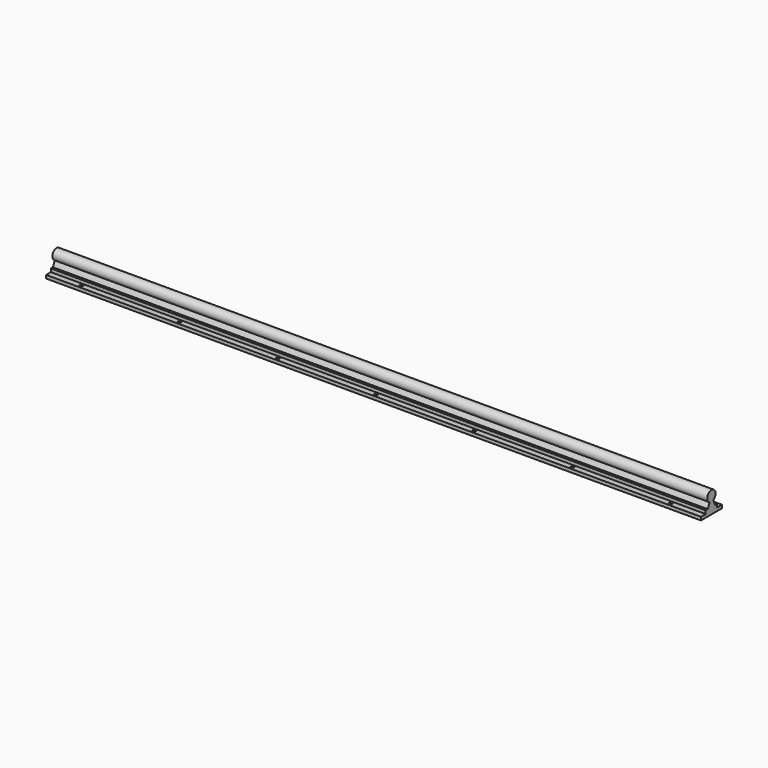
from build123d import *

# Parameters (mm, degrees)
F1_DEPTH = 1000
F2_R     = 2.5
F3_DEPTH = 33.001


with BuildPart() as f1:
    # F0 (on Right) → F1 (new body)
    with BuildSketch(Plane.YZ):
        with BuildLine():
            Line((0, 5), (0, 0))
            Line((0, 0), (40, 0))
            Line((40, 0), (40, 5))
            Line((40, 5), (31, 5))
            Line((31, 5), (31, 10))
            Line((31, 10), (27, 10))
            Line((27, 10), (23.471015, 17.792222))
            ThreePointArc((23.471015, 17.792222), (20, 33), (16.528985, 17.792222))
            Line((16.528985, 17.792222), (13, 10))
            Line((13, 10), (9, 10))
            Line((9, 10), (9, 5))
            Line((9, 5), (0, 5))
        make_face()
    extrude(amount=-F1_DEPTH)

    # F2 (on face) → F3 (cut, through all)
    with BuildSketch(Plane(origin=(0, 0, 0), x_dir=(1, 0, 0), z_dir=(0, 0, -1))):
        with Locations((-50, -5)):
            Circle(F2_R)
        with Locations((-200, -5)):
            Circle(F2_R)
        with Locations((-350, -5)):
            Circle(F2_R)
        with Locations((-500, -5)):
            Circle(F2_R)
        with Locations((-650, -5)):
            Circle(F2_R)
        with Locations((-800, -5)):
            Circle(F2_R)
        with Locations((-950, -5)):
            Circle(F2_R)
        with Locations((-950, -35)):
            Circle(F2_R)
        with Locations((-800, -35)):
            Circle(F2_R)
        with Locations((-650, -35)):
            Circle(F2_R)
        with Locations((-500, -35)):
            Circle(F2_R)
        with Locations((-350, -35)):
            Circle(F2_R)
        with Locations((-200, -35)):
            Circle(F2_R)
        with Locations((-50, -35)):
            Circle(F2_R)
    extrude(amount=-F3_DEPTH, mode=Mode.SUBTRACT)


solid = f1.part
